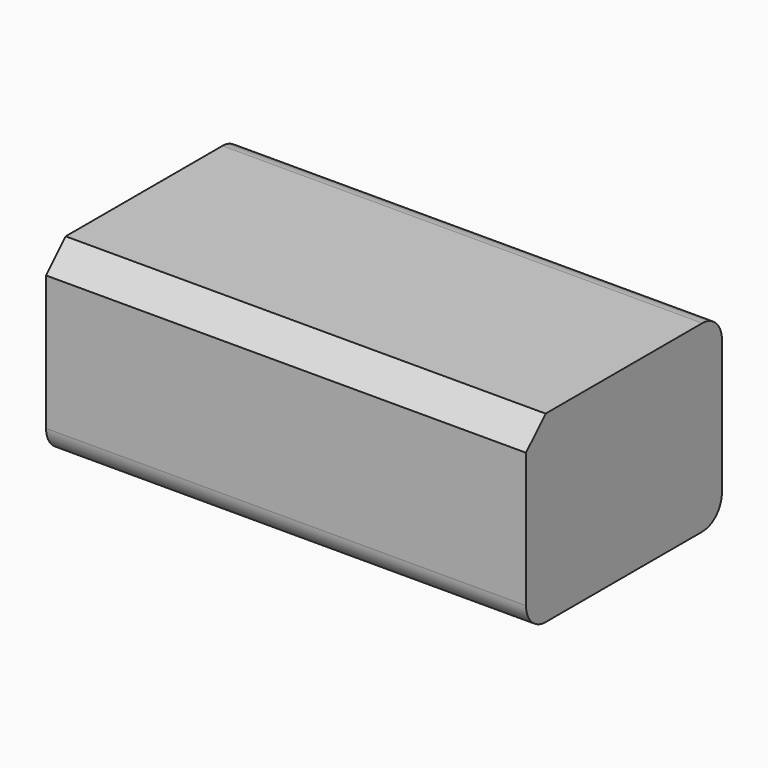
from build123d import *

# Parameters (mm, degrees)
F0_W     = 99.553153
F0_H     = 38.084091
F1_DEPTH = 50.8
F2_SIZE  = 5.08
F3_R     = 5.08
F4_R     = 5.08


with BuildPart() as f1:
    # F0 (on Front) → F1 (new body)
    with BuildSketch(Plane.XZ):
        with Locations((4.676994, -4.509959)):
            Rectangle(F0_W, F0_H)
    extrude(amount=F1_DEPTH)

    # F2
    f2_edges = [f1.edges().sort_by_distance(p)[0] for p in [
        (4.676994, -50.8, 14.532087),
    ]]
    chamfer(f2_edges, length=F2_SIZE)

    # F3
    f3_edges = [f1.edges().sort_by_distance(p)[0] for p in [
        (4.676994, 0, 14.532087),
    ]]
    fillet(f3_edges, radius=F3_R)

    # F4
    f4_edges = [f1.edges().sort_by_distance(p)[0] for p in [
        (4.676994, 0, -23.552004),
        (4.676994, -50.8, -23.552004),
    ]]
    fillet(f4_edges, radius=F4_R)


solid = f1.part
